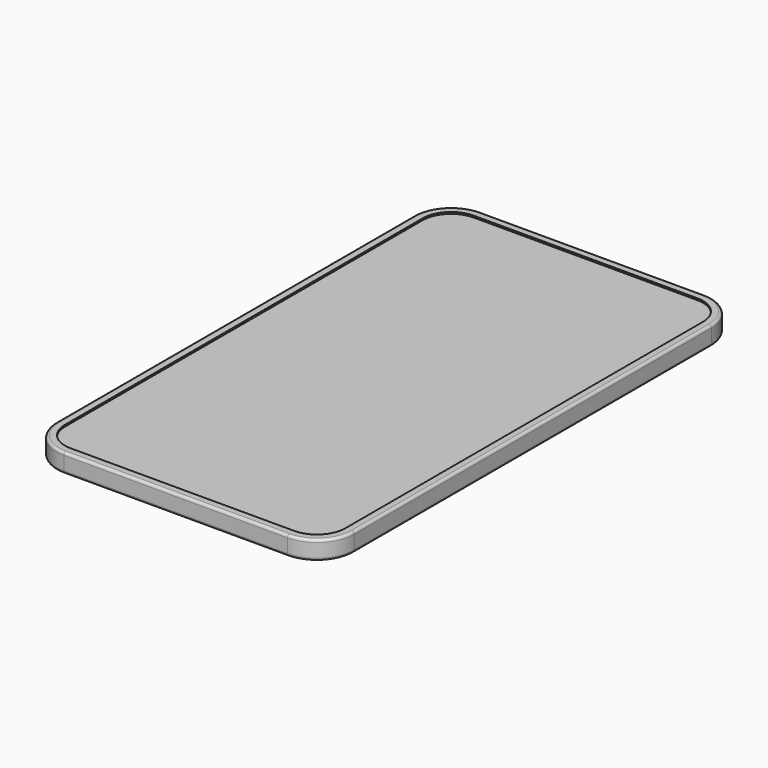
from build123d import *

# Parameters (mm, degrees)
F1_DEPTH = 18


with BuildPart() as f1:
    # F0 (on Top) → F1 (new body)
    with BuildSketch(Plane.XY):
        with BuildLine():
            Line((25.6144847721, -73.5944040664), (285.6144847721, -73.5944040664))
            ThreePointArc((285.6144847721, -73.5944040664), (313.8987560195, -61.8786753139), (325.6144847721, -33.5944040664))
            Line((325.6144847721, -33.5944040664), (325.6144847721, 486.4055959336))
            ThreePointArc((325.6144847721, 486.4055959336), (313.8987560195, 514.6898671811), (285.6144847721, 526.4055959336))
            Line((285.6144847721, 526.4055959336), (25.6144847721, 526.4055959336))
            ThreePointArc((25.6144847721, 526.4055959336), (-2.6697864754, 514.6898671811), (-14.3855152279, 486.4055959336))
            Line((-14.3855152279, 486.4055959336), (-14.3855152279, -33.5944040664))
            ThreePointArc((-14.3855152279, -33.5944040664), (-2.6697864754, -61.8786753139), (25.6144847721, -73.5944040664))
        make_face()
    extrude(amount=F1_DEPTH)


with BuildPart() as f4:
    # F4: sweep along a path in F4_path
    with BuildLine(Plane(origin=(-14.3855152279, 486.4055959336, 18), x_dir=(0, 1, 0), z_dir=(0, 0, 1))) as f4_path:
        Line((0, 0), (-520, 0))
        ThreePointArc((-520, 0), (-548.2842712475, -11.7157287525), (-560, -40))
        Line((-560, -40), (-560, -300))
        ThreePointArc((-560, -300), (-548.2842712475, -328.2842712475), (-520, -340))
        Line((-520, -340), (0, -340))
        ThreePointArc((0, -340), (28.2842712475, -328.2842712475), (40, -300))
        Line((40, -300), (40, -40))
        ThreePointArc((40, -40), (28.2842712475, -11.7157287525), (0, 0))
    # F3 (on 3pt) → F4 (sweep)
    with BuildSketch(Plane(origin=(0, -33.5944040664, 0), x_dir=(-1, 0, 0), z_dir=(0, 1, 0))):
        with BuildLine():
            Line((7.3855152279, 18), (14.3855152279, 18))
            Line((14.3855152279, 18), (14.3855152279, 0))
            Line((14.3855152279, 0), (7.3855152279, 0))
            Line((7.3855152279, 0), (7.3855152279, -2))
            Line((7.3855152279, -2), (14.3855152279, -2))
            ThreePointArc((14.3855152279, -2), (16.5068355715, -1.1213203436), (17.3855152279, 1))
            Line((17.3855152279, 1), (17.3855152279, 17))
            ThreePointArc((17.3855152279, 17), (16.5068355715, 19.1213203436), (14.3855152279, 20))
            Line((14.3855152279, 20), (7.3855152279, 20))
            Line((7.3855152279, 20), (7.3855152279, 18))
        make_face()
    sweep(path=f4_path.line)


solid = Compound([f1.part, f4.part])
